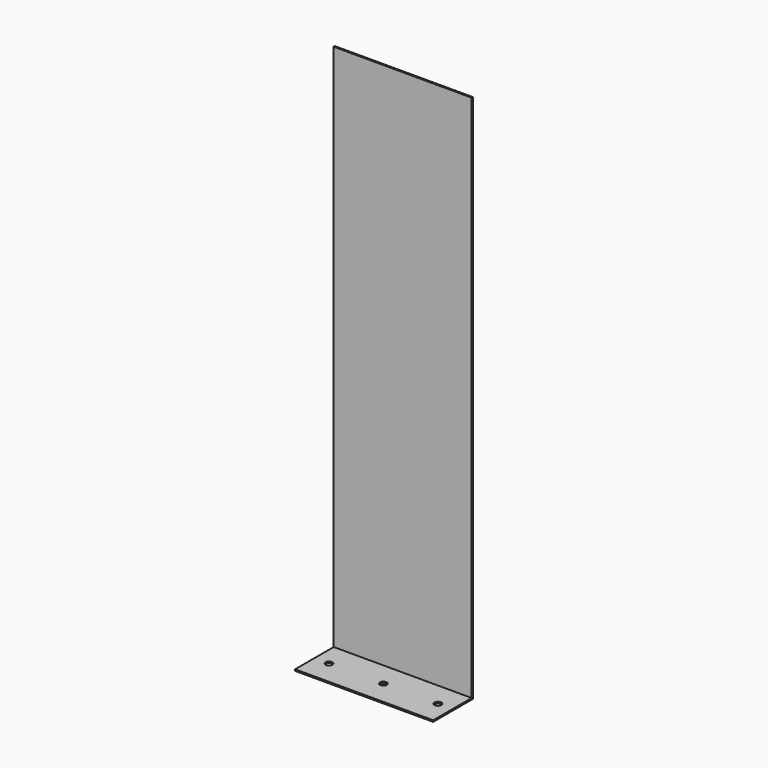
from build123d import *

# Parameters (mm, degrees)
F0_W     = 317.5
F0_H     = 1219.2
F1_DEPTH = 3.4163
F2_W     = 317.5
F2_H     = 3.4163
F3_DEPTH = 110.8837
F4_R     = 7.9375
F5_DEPTH = 3.4173


with BuildPart() as f1:
    # F0 (on Front) → F1 (new body)
    with BuildSketch(Plane.XZ):
        Rectangle(F0_W, F0_H)
    extrude(amount=F1_DEPTH)

    # F2 (on face) → F3 (join)
    with BuildSketch(Plane.XZ.offset(3.4163)):
        with Locations((0, -607.89185)):
            Rectangle(F2_W, F2_H)
    extrude(amount=F3_DEPTH)

    # F4 (on face) → F5 (cut, through all)
    with BuildSketch(Plane.XY.offset(-606.1837)):
        with Locations((-125.4125, -58.85815)):
            Circle(F4_R)
        with Locations((0, -58.85815)):
            Circle(F4_R)
        with Locations((125.4125, -58.85815)):
            Circle(F4_R)
    extrude(amount=-F5_DEPTH, mode=Mode.SUBTRACT)


solid = f1.part
